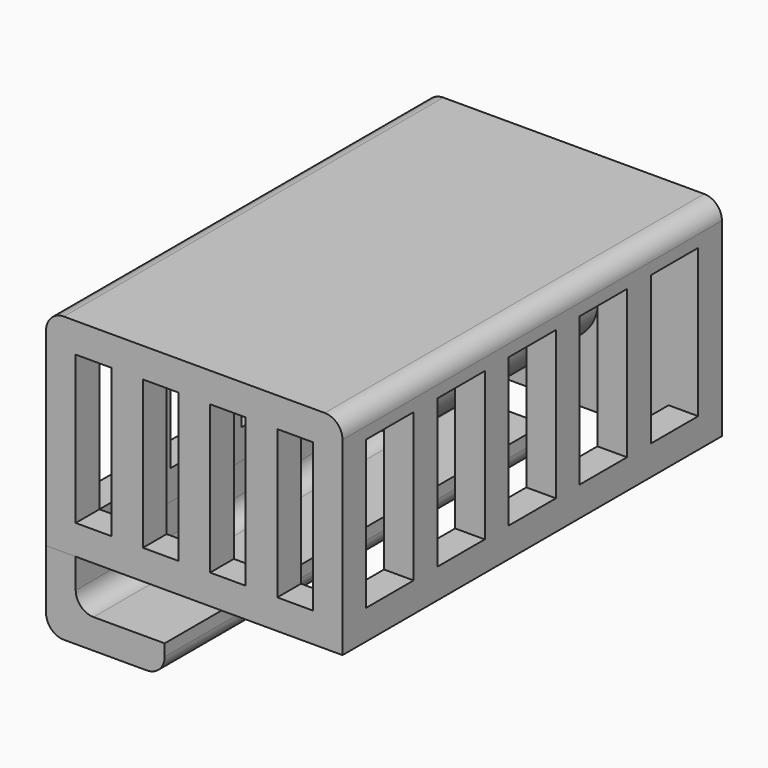
from build123d import *

# Parameters (mm, degrees)
F0_W      = 50
F0_H      = 80
F1_DEPTH  = 35
F2_W      = 40
F2_H      = 70
F3_DEPTH  = 30
F4_R      = 4
F5_DEPTH  = 5
F6_W      = 10
F6_H      = 25
F7_DEPTH  = 50.001
F8_W      = 6
F8_H      = 25
F9_DEPTH  = 5
F11_R     = 4
F12_DEPTH = 10
F13_W     = 15
F13_H     = 5
F14_DEPTH = 80
F15_R     = 3
F15_2_R   = 3
F16_DEPTH = 25


with BuildPart() as f1:
    # F0 (on Top) → F1 (new body)
    with BuildSketch(Plane.XY):
        with Locations((-25, 40)):
            Rectangle(F0_W, F0_H)
    extrude(amount=F1_DEPTH)

    # F2 (on face) → F3 (cut)
    with BuildSketch(Plane(origin=(0, 0, 0), x_dir=(1, 0, 0), z_dir=(0, 0, -1))):
        with Locations((-25, -40)):
            Rectangle(F2_W, F2_H)
    extrude(amount=-F3_DEPTH, mode=Mode.SUBTRACT)

    # F4 (on face) → F5 (cut, through all)
    with BuildSketch(Plane(origin=(0, 80, 0), x_dir=(-1, 0, 0), z_dir=(0, 1, 0))):
        with Locations((25, 17)):
            Circle(F4_R)
    extrude(amount=-F5_DEPTH, mode=Mode.SUBTRACT)

    # F6 (on face) → F7 (cut, through all)
    with BuildSketch(Plane(origin=(-50, 0, 0), x_dir=(0, -1, 0), z_dir=(-1, 0, 0))):
        with Locations((-70, 17.5)):
            Rectangle(F6_W, F6_H)
        with Locations((-55, 17.5)):
            Rectangle(F6_W, F6_H)
        with Locations((-40, 17.5)):
            Rectangle(F6_W, F6_H)
        with Locations((-25, 17.5)):
            Rectangle(F6_W, F6_H)
        with Locations((-10, 17.5)):
            Rectangle(F6_W, F6_H)
    extrude(amount=-F7_DEPTH, mode=Mode.SUBTRACT)

    # F8 (on face) → F9 (cut, through all)
    with BuildSketch(Plane.XZ):
        with Locations((-42, 17.5)):
            Rectangle(F8_W, F8_H)
        with Locations((-30.666667, 17.5)):
            Rectangle(F8_W, F8_H)
        with Locations((-19.333333, 17.5)):
            Rectangle(F8_W, F8_H)
        with Locations((-8, 17.5)):
            Rectangle(F8_W, F8_H)
    extrude(amount=-F9_DEPTH, mode=Mode.SUBTRACT)

    # F11 (on offset) → F12 (join)
    with BuildSketch(Plane.XZ.offset(-50)):
        with BuildLine():
            Line((-33.158947, 35), (-33.158947, 17.710462))
            ThreePointArc((-33.158947, 17.710462), (-25.355566, 8.817901), (-16.810179, 17))
            Line((-16.810179, 17), (-16.810179, 35))
            Line((-16.810179, 35), (-33.158947, 35))
        make_face()
        with Locations((-25, 17)):
            Circle(F11_R, mode=Mode.SUBTRACT)
    extrude(amount=F12_DEPTH)

    # F15#2
    f15_2_edges = [f1.edges().sort_by_distance(p)[0] for p in [
        (-50, 40, 35),
        (0, 40, 35),
    ]]
    fillet(f15_2_edges, radius=F15_2_R)

    # F11 (on offset) → F16 (join)
    with BuildSketch(Plane.XZ.offset(-50)):
        with BuildLine():
            Line((-33.158947, 35), (-33.158947, 17.710462))
            ThreePointArc((-33.158947, 17.710462), (-25.355566, 8.817901), (-16.810179, 17))
            Line((-16.810179, 17), (-16.810179, 35))
            Line((-16.810179, 35), (-33.158947, 35))
        make_face()
        with Locations((-25, 17)):
            Circle(F11_R, mode=Mode.SUBTRACT)
    extrude(amount=-F16_DEPTH)


with BuildPart() as f14:
    # F13 (on Front) → F14 (new body)
    with BuildSketch(Plane.XZ):
        Polygon((-45, -8), (-45, 0), (-50, 0), (-50, -13), (-45, -13), align=None)
        with Locations((-37.5, -10.5)):
            Rectangle(F13_W, F13_H)
    extrude(amount=-F14_DEPTH)

    # F15
    f15_edges = [f14.edges().sort_by_distance(p)[0] for p in [
        (-45, 40, -8),
        (-50, 40, -13),
        (-30, 40, -13),
    ]]
    fillet(f15_edges, radius=F15_R)


solid = Compound([f1.part, f14.part])
